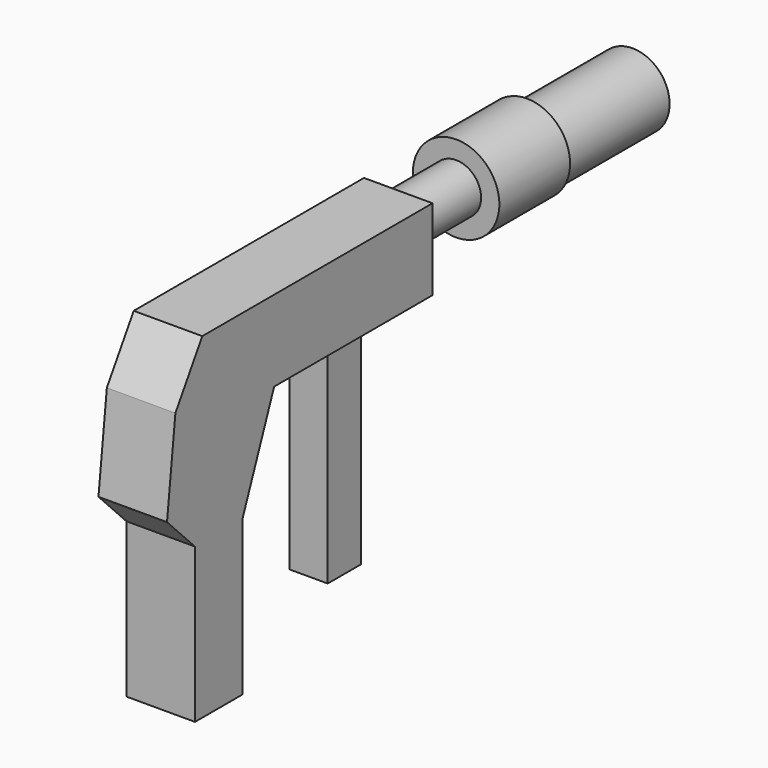
from build123d import *

# Parameters (mm, degrees)
F0_W      = 134.2095732689
F0_H      = 54.8827461898
F1_DEPTH  = 25.4
F2_R      = 16.9227775992
F3_DEPTH  = 62.23
F4_R      = 29.2955411645
F5_DEPTH  = 59.944
F6_DEPTH  = 46.482
F8_W      = 25.8811749518
F8_H      = 28.2603334635
F9_DEPTH  = 153.162
F11_R     = 25.1124764346
F12_DEPTH = 90.932
F13_DEPTH = 104.648


with BuildPart() as f1:
    # F0 (on Right) → F1 (new body)
    with BuildSketch(Plane.YZ):
        Polygon((-81.9051712751, -7.1336217225), (-81.9051712751, 47.7491244674), (-142.8231298923, 47.7491244674), (-165.6134873629, 11.0719772056), (-172.7062016726, -51.1080250144), (-149.0172445774, -75.3351673484), (-108.8246330619, -75.3351673484), align=None)
        with Locations((-14.8003846407, 20.3077513725)):
            Rectangle(F0_W, F0_H)
    extrude(amount=F1_DEPTH)

    # F2 (on face) → F3 (join)
    with BuildSketch(Plane(origin=(0, 52.3044019938, 0), x_dir=(-1, 0, 0), z_dir=(0, 1, 0))):
        with Locations((-12.7, 20.3077513725)):
            Circle(F2_R)
    extrude(amount=F3_DEPTH)

    # F4 (on face) → F5 (join)
    with BuildSketch(Plane(origin=(0, 114.5344019938, 0), x_dir=(-1, 0, 0), z_dir=(0, 1, 0))):
        with Locations((-12.7, 20.3077513725)):
            Circle(F4_R)
    extrude(amount=F5_DEPTH)

    # F0 (on Right) → F6 (join)
    with BuildSketch(Plane.YZ):
        Polygon((-81.9051712751, -7.1336217225), (-81.9051712751, 47.7491244674), (-142.8231298923, 47.7491244674), (-165.6134873629, 11.0719772056), (-172.7062016726, -51.1080250144), (-149.0172445774, -75.3351673484), (-108.8246330619, -75.3351673484), align=None)
        with Locations((-14.8003846407, 20.3077513725)):
            Rectangle(F0_W, F0_H)
    extrude(amount=F6_DEPTH)

    # F8 (on face) → F9 (join)
    with BuildSketch(Plane(origin=(0, 0, -7.1336217225), x_dir=(1, 0, 0), z_dir=(0, 0, -1))):
        with Locations((12.9405874759, -3.3692447469)):
            Rectangle(F8_W, F8_H)
    extrude(amount=F9_DEPTH)

    # F11 (on face) → F12 (join)
    with BuildSketch(Plane(origin=(0, 174.4784019938, 0), x_dir=(-1, 0, 0), z_dir=(0, 1, 0))):
        with Locations((-11.6089172661, 17.1811357141)):
            Circle(F11_R)
    extrude(amount=F12_DEPTH)

    # F13 (add): a face of the model
    f13_faces = [f1.faces().sort_by_distance(p)[0] for p in [
        (23.241, -128.9209388196, -75.3351673484),
    ]]
    extrude(f13_faces, amount=F13_DEPTH)


solid = f1.part
